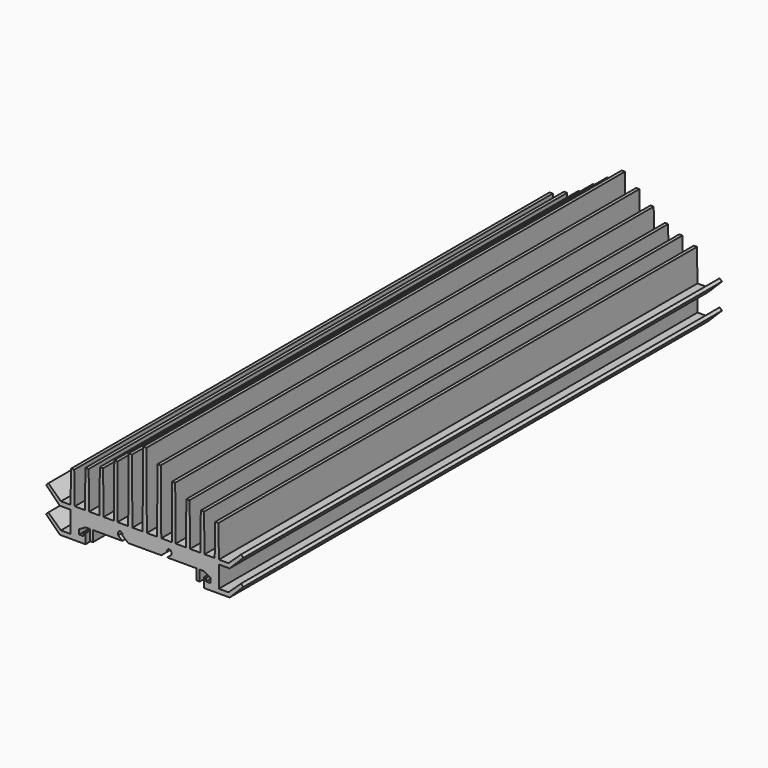
from build123d import *

# Parameters (mm, degrees)
F1_DEPTH = 280
F3_DEPTH = 280


with BuildPart() as f1:
    # F0 (on Front) → F1 (new body)
    with BuildSketch(Plane.XZ):
        with BuildLine():
            Line((-32.75, 3.5), (-33, 18.5))
            Line((-33, 18.5), (-34.5, 18.5))
            Line((-34.5, 18.5), (-34.722757, 3.5))
            Line((-34.722757, 3.5), (-34.722757, -10.5))
            Line((-34.722757, -10.5), (-27.722757, -10.5))
            Line((-27.722757, -10.5), (-27.722757, -5.971823))
            Line((-27.722757, -5.971823), (-28.722757, -5.971823))
            Line((-28.722757, -5.971823), (-28.722757, -7.471823))
            Line((-28.722757, -7.471823), (-30.722757, -7.471823))
            Line((-30.722757, -7.471823), (-30.722757, -5.232051))
            Line((-30.722757, -5.232051), (-27.722757, -3.5))
            Line((-27.722757, -3.5), (-25.722757, -3.5))
            Line((-25.722757, -3.5), (-25.722757, -8.5))
            Line((-25.722757, -8.5), (-24.222757, -8.5))
            Line((-24.222757, -8.5), (-24.222757, -3.5))
            Line((-24.222757, -3.5), (-10.465052, -3.5))
            Line((-10.465052, -3.5), (-12.465052, -1.821801))
            Line((-12.465052, -1.821801), (-12.465052, -0.821801))
            ThreePointArc((-12.465052, -0.821801), (-11.465052, 0.178199), (-10.465052, -0.821801))
            Line((-10.465052, -0.821801), (-10.465052, -1.221801))
            Line((-10.465052, -1.221801), (-7.75, -3.5))
            Line((-7.75, -3.5), (0, -3.5))
            Line((0, -3.5), (0, 38.5))
            Line((0, 38.5), (-0.75, 38.5))
            Line((-0.75, 38.5), (-1, 3.5))
            Line((-1, 3.5), (-5.75, 3.5))
            Line((-5.75, 3.5), (-6, 33.5))
            Line((-6, 33.5), (-7.5, 33.5))
            Line((-7.5, 33.5), (-7.75, 3.5))
            Line((-7.75, 3.5), (-12.75, 3.5))
            Line((-12.75, 3.5), (-12.75, 28.5))
            Line((-12.75, 28.5), (-14.25, 28.5))
            Line((-14.25, 28.5), (-14.5, 3.5))
            Line((-14.5, 3.5), (-19.25, 3.5))
            Line((-19.25, 3.5), (-19.5, 23.5))
            Line((-19.5, 23.5), (-21, 23.5))
            Line((-21, 23.5), (-21.238413, 3.5))
            Line((-21.238413, 3.5), (-26.014383, 3.5))
            Line((-26.014383, 3.5), (-26.25, 21))
            Line((-26.25, 21), (-27.75, 21))
            Line((-27.75, 21), (-28, 3.5))
            Line((-28, 3.5), (-32.75, 3.5))
        make_face()
    extrude(amount=F1_DEPTH)

    # F2 (on face) → F3 (join)
    with BuildSketch(Plane.XZ.offset(280)):
        Polygon((-34.722757, -10.5), (-34.722757, -8.503925), (-39.222757, -8.503925), (-45.113872, -2.987565), (-46.174532, -4.048225), (-39.722757, -10.5), align=None)
        Polygon((-46.174532, 7.951775), (-39.722757, 1.5), (-34.722757, 1.5), (-34.722757, 3.496075), (-39.222757, 3.496075), (-45.113872, 9.012435), align=None)
    extrude(amount=-F3_DEPTH)

    # F4: F1 across face


with BuildPart() as f1_1:
    add(f1.part)
    add(f1.part.mirror(Plane(origin=(0, -140, 17.5), x_dir=(0, 1, 0), z_dir=(1, 0, 0))))


solid = f1_1.part
